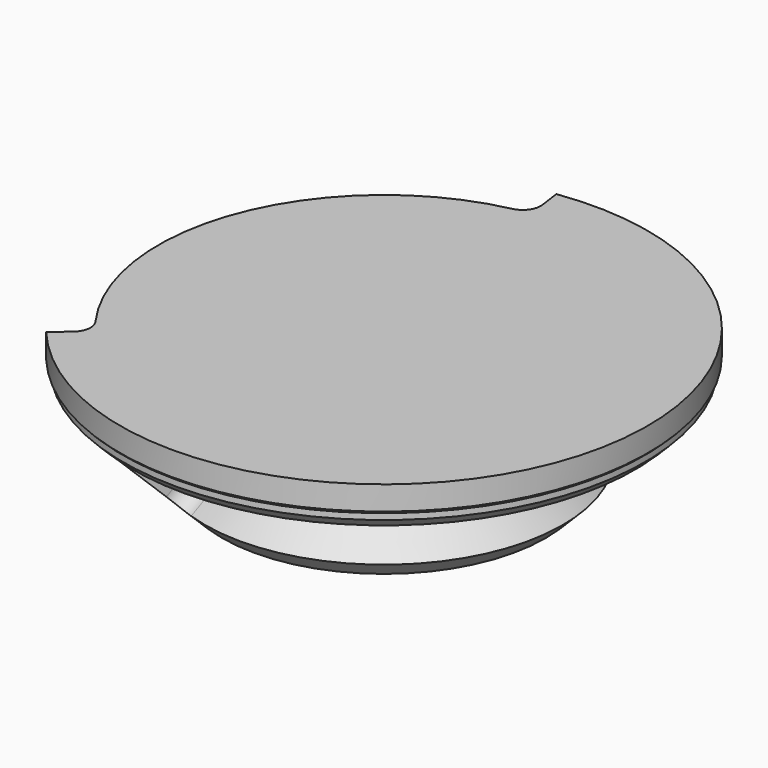
from build123d import *

# Parameters (mm, degrees)
F3_W           = 8.3933982822
F3_H           = 16.3933982822
F4_ANGLE_BACK  = 40
F4_ANGLE       = 122
F6_ANGLE_START = 98
F6_ANGLE       = 196
F7_ANGLE_BACK  = 40
F7_ANGLE       = 122
F8_R           = 3
F8_2_R         = 3
F9_R           = 3
F13_DEPTH      = 10
F14_R          = 22
F15_DEPTH      = 1.5


with BuildPart() as f1:
    # F0 (on Front) → F1 (revolve)
    with BuildSketch(Plane.XZ):
        Polygon((-43.5, 14.5), (-27, -2), (0, -2), (0, 20), (-44, 20), (-44, 16), (-43.5, 15.5), align=None)
    revolve(axis=Axis((0, 0, 9.4880101401), (0, 0, -1)))


with BuildPart() as f4:
    # F3 (on Front) → F4 (revolve)
    with BuildSketch(Plane.XZ, mode=Mode.PRIVATE) as f4_sk:
        with Locations((-41.8033008589, 16.8033008589)):
            Rectangle(F3_W, F3_H)
    revolve(f4_sk.sketch.rotate(Axis((0, 0, 9.4880101401), (0, 0, -1)), -F4_ANGLE_BACK), axis=Axis((0, 0, 9.4880101401), (0, 0, -1)), revolution_arc=F4_ANGLE)

    # F8#2
    f8_2_edges = [f4.edges().sort_by_distance(p)[0] for p in [
        (-5.233827, 37.240617, 16.803301),
        (-28.808328, -24.173058, 16.803301),
    ]]
    fillet(f8_2_edges, radius=F8_2_R)


with BuildPart() as f6:
    # F5 (on Front) → F6 (revolve)
    with BuildSketch(Plane.XZ, mode=Mode.PRIVATE) as f6_sk:
        Polygon((-36.8994949366, -6.2426406871), (-25.5857864376, 5.0710678119), (-37.6066017178, 17.091883092), (-48.9203102168, 5.7781745931), align=None)
    revolve(f6_sk.sketch.rotate(Axis((0, 0, 9), (0, 0, -1)), F6_ANGLE_START), axis=Axis((0, 0, 9), (0, 0, -1)), revolution_arc=F6_ANGLE)

    # F9
    f9_edges = [f6.edges().sort_by_distance(p)[0] for p in [
        (4.348135, 30.938589, -0.585786),
        (6.021109, 42.842419, 11.435029),
        (-17.596833, -39.523134, 11.435029),
        (-12.707527, -28.541572, -0.585786),
    ]]
    fillet(f9_edges, radius=F9_R)


with BuildPart() as f7:
    # F2 (on Front) → F7 (revolve)
    with BuildSketch(Plane.XZ, mode=Mode.PRIVATE) as f7_sk:
        Polygon((-41.2877159425, 2.0970603683), (-31.9497474683, 11.4350288425), (-37.6066017178, 17.091883092), (-46.944570192, 7.7539146178), align=None)
    revolve(f7_sk.sketch.rotate(Axis((0, 0, 9), (0, 0, -1)), -F7_ANGLE_BACK), axis=Axis((0, 0, 9), (0, 0, -1)), revolution_arc=F7_ANGLE)

    # F8
    f8_edges = [f7.edges().sort_by_distance(p)[0] for p in [
        (-28.051576, -23.538067, 6.766045),
        (-5.096342, 36.262361, 6.766045),
    ]]
    fillet(f8_edges, radius=F8_R)


with BuildPart() as f1_1:
    add(f1.part)

    # F10: cut F7, F4, F6
    add(f7.part, mode=Mode.SUBTRACT)
    add(f4.part, mode=Mode.SUBTRACT)
    add(f6.part, mode=Mode.SUBTRACT)

    # F12 (on offset) → F13 (cut)
    with BuildSketch(Plane(origin=(0, 0, -2), x_dir=(1, 0, 0), z_dir=(0, 0, -1))):
        with BuildLine():
            ThreePointArc((-11, 2.5), (-13.5, 0), (-11, -2.5))
            Line((-11, -2.5), (0, -2.5))
            Line((0, -2.5), (11, -2.5))
            ThreePointArc((11, -2.5), (13.5, 0), (11, 2.5))
            Line((11, 2.5), (0, 2.5))
            Line((0, 2.5), (-11, 2.5))
        make_face()
    extrude(amount=-F13_DEPTH, mode=Mode.SUBTRACT)

    # F14 (on offset) → F15 (cut)
    with BuildSketch(Plane(origin=(0, 0, -2), x_dir=(1, 0, 0), z_dir=(0, 0, -1))):
        Circle(F14_R)
    extrude(amount=-F15_DEPTH, mode=Mode.SUBTRACT)


solid = f1_1.part
